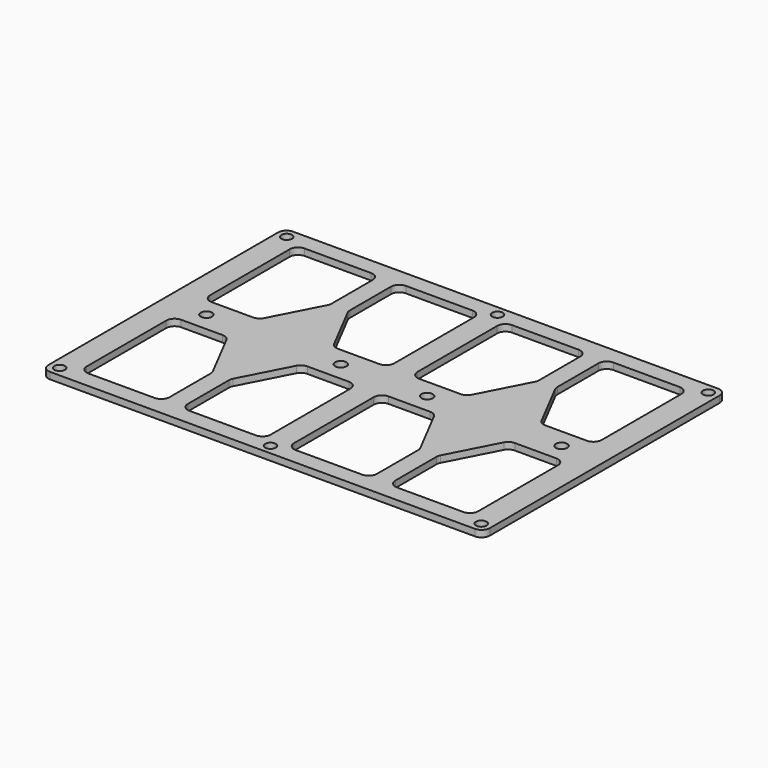
from build123d import *

# Parameters (mm, degrees)
SKETCH_W        = 133
SKETCH_H        = 91.5
SKETCH_R        = 1.6
PAD_DEPTH       = 2
SKETCH001_R     = 1.7
POCKET_DEPTH    = 2.001
POCKET001_DEPTH = 2.001
FILLET_R        = 2.5


with BuildPart() as part:
    # Sketch → Pad (new body)
    with BuildSketch(Plane.XY):
        Rectangle(SKETCH_W, SKETCH_H)
        with Locations((-63.5, 42.75)):
            Circle(SKETCH_R, mode=Mode.SUBTRACT)
        with Locations((0, 42.75)):
            Circle(SKETCH_R, mode=Mode.SUBTRACT)
        with Locations((63.5, 42.75)):
            Circle(SKETCH_R, mode=Mode.SUBTRACT)
        with Locations((0, -42.75)):
            Circle(SKETCH_R, mode=Mode.SUBTRACT)
        with Locations((63.5, -42.75)):
            Circle(SKETCH_R, mode=Mode.SUBTRACT)
        with Locations((-63.5, -42.75)):
            Circle(SKETCH_R, mode=Mode.SUBTRACT)
    extrude(amount=PAD_DEPTH)

    # Sketch001 (on Face12 of Pad) → Pocket (cut, through all)
    with BuildSketch(Plane.XY.offset(2)):
        with Locations((13, 0)):
            Circle(SKETCH001_R)
        with Locations((53.5, 0)):
            Circle(SKETCH001_R)
        with Locations((-13, 0)):
            Circle(SKETCH001_R)
        with Locations((-53.5, 0)):
            Circle(SKETCH001_R)
    extrude(amount=-POCKET_DEPTH, mode=Mode.SUBTRACT)

    # Sketch002 (on Face5 of Pocket) → Pocket001 (cut, through all)
    with BuildSketch(Plane.XY.offset(2)):
        with BuildLine():
            Line((-59, 38.25), (-59, 8.25))
            ThreePointArc((-59, 8.25), (-58.267767, 6.482233), (-56.5, 5.75))
            Line((-56.5, 5.75), (-44, 5.75))
            ThreePointArc((-44, 5.75), (-42.700268, 6.114421), (-41.779456, 7.101443))
            Line((-41.779456, 7.101443), (-34.279456, 21.601443))
            ThreePointArc((-34.279456, 21.601443), (-34.070868, 22.158967), (-34, 22.75))
            Line((-34, 22.75), (-34, 38.25))
            ThreePointArc((-34, 38.25), (-34.732233, 40.017767), (-36.5, 40.75))
            Line((-36.5, 40.75), (-56.5, 40.75))
            ThreePointArc((-56.5, 40.75), (-58.267767, 40.017767), (-59, 38.25))
        make_face()
        with BuildLine():
            Line((-28.5, 38.25), (-28.5, 22.75))
            ThreePointArc((-28.5, 22.75), (-28.429132, 22.158967), (-28.220544, 21.601443))
            Line((-28.220544, 21.601443), (-20.720544, 7.101443))
            ThreePointArc((-20.720544, 7.101443), (-19.799732, 6.114421), (-18.5, 5.75))
            Line((-18.5, 5.75), (-6, 5.75))
            ThreePointArc((-6, 5.75), (-4.232233, 6.482233), (-3.5, 8.25))
            Line((-3.5, 8.25), (-3.5, 38.25))
            ThreePointArc((-3.5, 38.25), (-4.232233, 40.017767), (-6, 40.75))
            Line((-6, 40.75), (-26, 40.75))
            ThreePointArc((-26, 40.75), (-27.767767, 40.017767), (-28.5, 38.25))
        make_face()
        with BuildLine():
            Line((59, -38.25), (59, -8.25))
            ThreePointArc((59, -8.25), (58.267767, -6.482233), (56.5, -5.75))
            Line((56.5, -5.75), (44, -5.75))
            ThreePointArc((44, -5.75), (42.700268, -6.114421), (41.779456, -7.101443))
            Line((41.779456, -7.101443), (34.279456, -21.601443))
            ThreePointArc((34.279456, -21.601443), (34.070868, -22.158967), (34, -22.75))
            Line((34, -22.75), (34, -38.25))
            ThreePointArc((34, -38.25), (34.732233, -40.017767), (36.5, -40.75))
            Line((36.5, -40.75), (56.5, -40.75))
            ThreePointArc((56.5, -40.75), (58.267767, -40.017767), (59, -38.25))
        make_face()
        with BuildLine():
            Line((28.5, -38.25), (28.5, -22.75))
            ThreePointArc((28.5, -22.75), (28.429132, -22.158967), (28.220544, -21.601443))
            Line((28.220544, -21.601443), (20.720544, -7.101443))
            ThreePointArc((20.720544, -7.101443), (19.799732, -6.114421), (18.5, -5.75))
            Line((18.5, -5.75), (6, -5.75))
            ThreePointArc((6, -5.75), (4.232233, -6.482233), (3.5, -8.25))
            Line((3.5, -8.25), (3.5, -38.25))
            ThreePointArc((3.5, -38.25), (4.232233, -40.017767), (6, -40.75))
            Line((6, -40.75), (26, -40.75))
            ThreePointArc((26, -40.75), (27.767767, -40.017767), (28.5, -38.25))
        make_face()
        with BuildLine():
            Line((59, 38.25), (59, 8.25))
            ThreePointArc((56.5, 5.75), (58.267767, 6.482233), (59, 8.25))
            Line((56.5, 5.75), (44, 5.75))
            ThreePointArc((41.779456, 7.101443), (42.700268, 6.114421), (44, 5.75))
            Line((41.779456, 7.101443), (34.279456, 21.601443))
            ThreePointArc((34, 22.75), (34.070868, 22.158967), (34.279456, 21.601443))
            Line((34, 22.75), (34, 38.25))
            ThreePointArc((36.5, 40.75), (34.732233, 40.017767), (34, 38.25))
            Line((36.5, 40.75), (56.5, 40.75))
            ThreePointArc((59, 38.25), (58.267767, 40.017767), (56.5, 40.75))
        make_face()
        with BuildLine():
            Line((28.5, 38.25), (28.5, 22.75))
            ThreePointArc((28.220544, 21.601443), (28.429132, 22.158967), (28.5, 22.75))
            Line((28.220544, 21.601443), (20.720544, 7.101443))
            ThreePointArc((18.5, 5.75), (19.799732, 6.114421), (20.720544, 7.101443))
            Line((18.5, 5.75), (6, 5.75))
            ThreePointArc((3.5, 8.25), (4.232233, 6.482233), (6, 5.75))
            Line((3.5, 8.25), (3.5, 38.25))
            ThreePointArc((6, 40.75), (4.232233, 40.017767), (3.5, 38.25))
            Line((6, 40.75), (26, 40.75))
            ThreePointArc((28.5, 38.25), (27.767767, 40.017767), (26, 40.75))
        make_face()
        with BuildLine():
            Line((-59, -38.25), (-59, -8.25))
            ThreePointArc((-56.5, -5.75), (-58.267767, -6.482233), (-59, -8.25))
            Line((-56.5, -5.75), (-44, -5.75))
            ThreePointArc((-41.779456, -7.101443), (-42.700268, -6.114421), (-44, -5.75))
            Line((-41.779456, -7.101443), (-34.279456, -21.601443))
            ThreePointArc((-34, -22.75), (-34.070868, -22.158967), (-34.279456, -21.601443))
            Line((-34, -22.75), (-34, -38.25))
            ThreePointArc((-36.5, -40.75), (-34.732233, -40.017767), (-34, -38.25))
            Line((-36.5, -40.75), (-56.5, -40.75))
            ThreePointArc((-59, -38.25), (-58.267767, -40.017767), (-56.5, -40.75))
        make_face()
        with BuildLine():
            Line((-28.5, -38.25), (-28.5, -22.75))
            ThreePointArc((-28.220544, -21.601443), (-28.429132, -22.158967), (-28.5, -22.75))
            Line((-28.220544, -21.601443), (-20.720544, -7.101443))
            ThreePointArc((-18.5, -5.75), (-19.799732, -6.114421), (-20.720544, -7.101443))
            Line((-18.5, -5.75), (-6, -5.75))
            ThreePointArc((-3.5, -8.25), (-4.232233, -6.482233), (-6, -5.75))
            Line((-3.5, -8.25), (-3.5, -38.25))
            ThreePointArc((-6, -40.75), (-4.232233, -40.017767), (-3.5, -38.25))
            Line((-6, -40.75), (-26, -40.75))
            ThreePointArc((-28.5, -38.25), (-27.767767, -40.017767), (-26, -40.75))
        make_face()
    extrude(amount=-POCKET001_DEPTH, mode=Mode.SUBTRACT)

    # Fillet
    fillet_edges = [part.edges().sort_by_distance(p)[0] for p in [
        (-66.5, -45.75, 1),
        (66.5, -45.75, 1),
        (66.5, 45.75, 1),
        (-66.5, 45.75, 1),
    ]]
    fillet(fillet_edges, radius=FILLET_R)


solid = part.part
